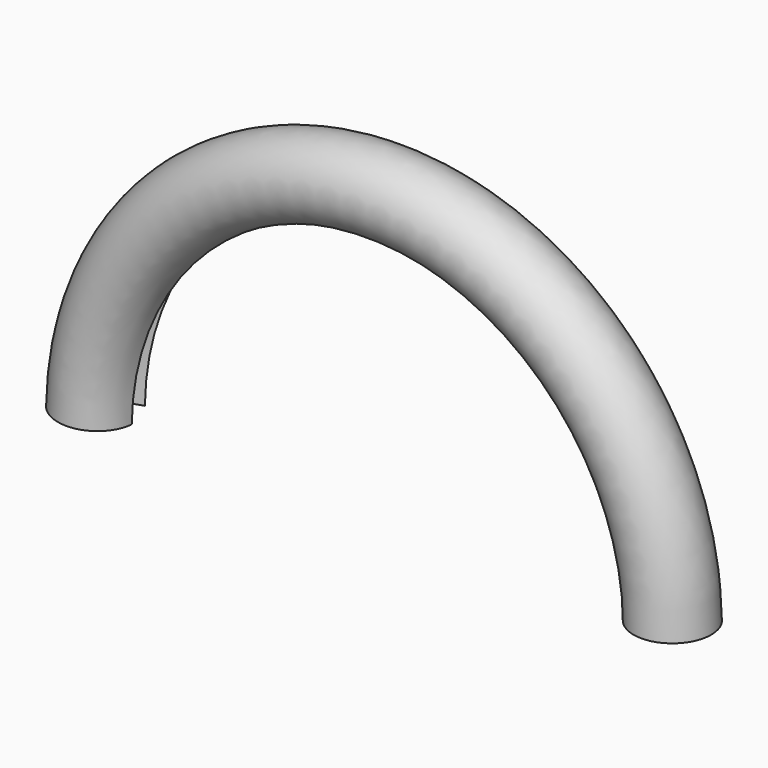
from build123d import *


with BuildPart() as f2:
    # F2: sweep along a path in F1
    with BuildLine(Plane.XZ) as f2_path:
        ThreePointArc((0, 0), (-34.996442, 34.50096), (-69.992884, 0))
    # F0 (on Top) → F2 (sweep)
    with BuildSketch(Plane.XY):
        with BuildLine():
            Line((-0.656116, -1.729743), (-4.685129, -0.373587))
            ThreePointArc((-4.685129, -0.373587), (4.409601, -1.626476), (-3.320388, 3.326413))
            Line((-3.320388, 3.326413), (0.656116, 1.729743))
            ThreePointArc((0.656116, 1.729743), (1.729743, -0.656116), (-0.656116, -1.729743))
        make_face()
    sweep(path=f2_path.line)


solid = f2.part
